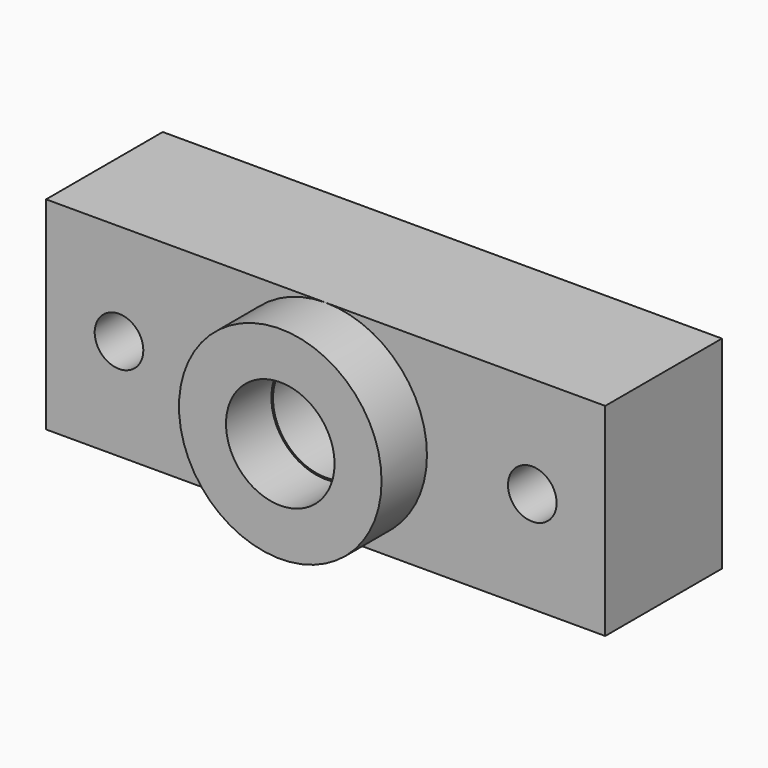
from build123d import *

# Parameters (mm, degrees)
F0_W     = 34.5
F0_H     = 12.5
F0_R     = 1.5
F0_R_2   = 3.25
F1_DEPTH = 9
F2_R     = 6.25
F2_R_2   = 3.35
F3_DEPTH = 3.5
F4_W     = 10.950644
F4_H     = 8.111588
F5_DEPTH = 2


with BuildPart() as f1:
    # F0 (on Front) → F1 (new body)
    with BuildSketch(Plane.XZ):
        Rectangle(F0_W, F0_H)
        with Locations((-12.75, 0)):
            Circle(F0_R, mode=Mode.SUBTRACT)
        Circle(F0_R_2, mode=Mode.SUBTRACT)
        with Locations((12.75, 0)):
            Circle(F0_R, mode=Mode.SUBTRACT)
    extrude(amount=F1_DEPTH)

    # F2 (on face) → F3 (join)
    with BuildSketch(Plane.XZ.offset(9)):
        Circle(F2_R)
        Circle(F2_R_2, mode=Mode.SUBTRACT)
    extrude(amount=F3_DEPTH)

    # F4 (on face) → F5 (join)
    with BuildSketch(Plane(origin=(0, 0, 0), x_dir=(-1, 0, 0), z_dir=(0, 1, 0))):
        Rectangle(F4_W, F4_H)
    extrude(amount=-F5_DEPTH)


solid = f1.part
